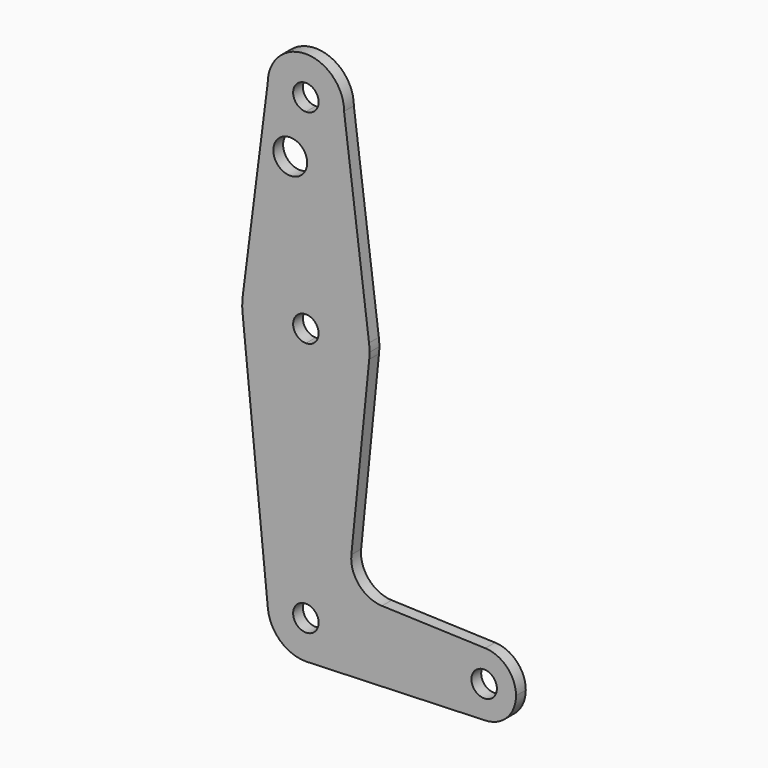
from build123d import *

# Parameters (mm, degrees)
F0_R     = 3.175
F1_DEPTH = 3.048


with BuildPart() as f1:
    # F0 (on Front) → F1 (new body)
    with BuildSketch(Plane.XZ):
        with BuildLine():
            ThreePointArc((9.525, 0), (6.7351920908, 6.7351920908), (0, 9.525))
            ThreePointArc((0, 9.525), (-7.063929059, 6.3895642457), (-9.4772553384, -0.9525))
            ThreePointArc((-9.4772553384, -0.9525), (-6.3895642457, -7.063929059), (0, -9.525))
            Line((0, -9.525), (0.6773435479, -9.500885786))
            ThreePointArc((0.6773435479, -9.500885786), (6.9705567315, -6.4912990883), (9.525, 0))
        make_face()
        with BuildLine():
            ThreePointArc((3.175, 0), (-2.2450640303, -2.2450640303), (0, 3.175))
            ThreePointArc((0, 3.175), (2.2450640303, 2.2450640303), (3.175, 0))
        make_face(mode=Mode.SUBTRACT)
        with BuildLine():
            ThreePointArc((-9.4772553384, -0.9525), (-7.063929059, 6.3895642457), (0, 9.525))
            Line((0, 9.525), (0, 47.625))
            ThreePointArc((0, 47.625), (-10.6492737428, 51.7267849017), (-15.7954255641, 61.9125))
            Line((-15.7954255641, 61.9125), (-9.4772553384, -0.9525))
        make_face()
        with BuildLine():
            Line((0, 47.625), (0, 9.525))
            ThreePointArc((0, 9.525), (6.7351920908, 6.7351920908), (9.525, 0))
            ThreePointArc((9.525, 0), (6.9705567315, -6.4912990883), (0.6773435479, -9.500885786))
            Line((0.6773435479, -9.500885786), (44.7324052746, -7.9324746146))
            ThreePointArc((44.7324052746, -7.9324746146), (36.5125, 0), (44.7324052746, 7.9324746146))
            Line((44.7324052746, 7.9324746146), (18.968327868, 8.8497055806))
            ThreePointArc((18.968327868, 8.8497055806), (13.2612039825, 11.5674628959), (11.3408358685, 17.5898921545))
            Line((11.3408358685, 17.5898921545), (15.7954255641, 61.9125))
            ThreePointArc((15.7954255641, 61.9125), (10.6492737428, 51.7267849017), (0, 47.625))
        make_face()
        with BuildLine():
            ThreePointArc((-15.7954255641, 61.9125), (-10.6492737428, 51.7267849017), (0, 47.625))
            Line((0, 47.625), (0, 60.325))
            ThreePointArc((0, 60.325), (-3.175, 63.5), (0, 66.675))
            Line((0, 66.675), (0, 79.375))
            ThreePointArc((0, 79.375), (-10.4912828548, 75.4142187767), (-15.7474569047, 65.5082893304))
            ThreePointArc((-15.7474569047, 65.5082893304), (-15.8735876171, 63.7117573215), (-15.7954255641, 61.9125))
        make_face()
        with BuildLine():
            Line((0, 60.325), (0, 47.625))
            ThreePointArc((0, 47.625), (10.6492737428, 51.7267849017), (15.7954255641, 61.9125))
            ThreePointArc((15.7954255641, 61.9125), (15.8550939106, 62.7052534459), (15.875, 63.5))
            ThreePointArc((15.875, 63.5), (15.8430821396, 64.5061676396), (15.7474569047, 65.5082893304))
            ThreePointArc((15.7474569047, 65.5082893304), (10.4912828548, 75.4142187767), (0, 79.375))
            Line((0, 79.375), (0, 66.675))
            ThreePointArc((0, 66.675), (2.2450640303, 65.7450640303), (3.175, 63.5))
            ThreePointArc((3.175, 63.5), (2.2450640303, 61.2549359697), (0, 60.325))
        make_face()
        with BuildLine():
            ThreePointArc((0, -9.525), (0.3388863295, -9.5189695375), (0.6773435479, -9.500885786))
            Line((0.6773435479, -9.500885786), (0, -9.525))
        make_face()
        with BuildLine():
            Line((-9.525, 114.3), (-15.7474569047, 65.5082893304))
            ThreePointArc((-15.7474569047, 65.5082893304), (-10.4912828548, 75.4142187767), (0, 79.375))
            Line((0, 79.375), (0, 98.4190564904))
            ThreePointArc((0, 98.4190564904), (-8.1106314747, 100.0252), (0, 101.6313435096))
            Line((0, 101.6313435096), (0, 104.775))
            ThreePointArc((0, 104.775), (-6.7351920908, 107.5648079092), (-9.525, 114.3))
        make_face()
        with BuildLine():
            ThreePointArc((44.7324052746, 7.9324746146), (36.5125, 0), (44.7324052746, -7.9324746146))
            ThreePointArc((44.7324052746, -7.9324746146), (50.1616327839, -5.5119104847), (52.3875, 0))
            ThreePointArc((52.3875, 0), (50.1616327839, 5.5119104847), (44.7324052746, 7.9324746146))
        make_face()
        with Locations((44.45, 0)):
            Circle(F0_R, mode=Mode.SUBTRACT)
        with BuildLine():
            Line((0, 98.4190564904), (0, 79.375))
            ThreePointArc((0, 79.375), (10.4912828548, 75.4142187767), (15.7474569047, 65.5082893304))
            Line((15.7474569047, 65.5082893304), (9.525, 114.3))
            ThreePointArc((9.525, 114.3), (6.7351920908, 107.5648079092), (0, 104.775))
            Line((0, 104.775), (0, 101.6313435096))
            ThreePointArc((0, 101.6313435096), (0.2377830844, 100.8438668206), (0.3180636405, 100.0252))
            ThreePointArc((0.3180636405, 100.0252), (0.2377830844, 99.2065331794), (0, 98.4190564904))
        make_face()
        with BuildLine():
            ThreePointArc((9.525, 114.3), (0, 123.825), (-9.525, 114.3))
            ThreePointArc((-9.525, 114.3), (-6.7351920908, 107.5648079092), (0, 104.775))
            ThreePointArc((0, 104.775), (6.7351920908, 107.5648079092), (9.525, 114.3))
        make_face()
        with BuildLine():
            ThreePointArc((3.175, 114.3), (2.2450640303, 112.0549359697), (0, 111.125))
            ThreePointArc((0, 111.125), (-2.2450640303, 116.5450640303), (3.175, 114.3))
        make_face(mode=Mode.SUBTRACT)
    extrude(amount=F1_DEPTH)


solid = f1.part
